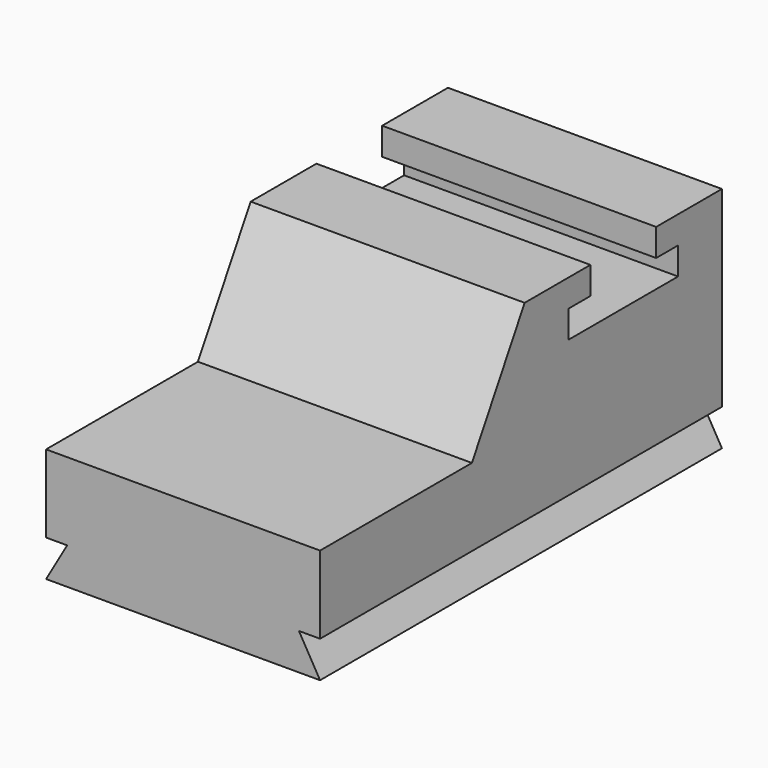
from build123d import *

# Parameters (mm, degrees)
F1_DEPTH = 1524
F3_DEPTH = 2794


with BuildPart() as f1:
    # F0 (on Right) → F1 (new body)
    with BuildSketch(Plane.YZ):
        Polygon((-473.39668, 551.983926), (-473.39668, -83.016074), (2320.60332, -83.016074), (2320.60332, 1186.983926), (1863.40332, 1186.983926), (1863.40332, 1034.583926), (2015.80332, 1034.583926), (2015.80332, 882.183926), (1253.80332, 882.183926), (1253.80332, 1034.583926), (1406.20332, 1034.583926), (1406.20332, 1186.983926), (949.00332, 1186.983926), (582.385899, 551.983926), align=None)
    extrude(amount=F1_DEPTH)

    # F2 (on face) → F3 (cut)
    with BuildSketch(Plane.XZ.offset(473.39668)):
        Polygon((0, 120.183926), (0, -83.016074), (117.317575, 120.183926), align=None)
        Polygon((1406.682425, 120.183926), (1524, -83.016074), (1524, 120.183926), align=None)
    extrude(amount=-F3_DEPTH, mode=Mode.SUBTRACT)


solid = f1.part
